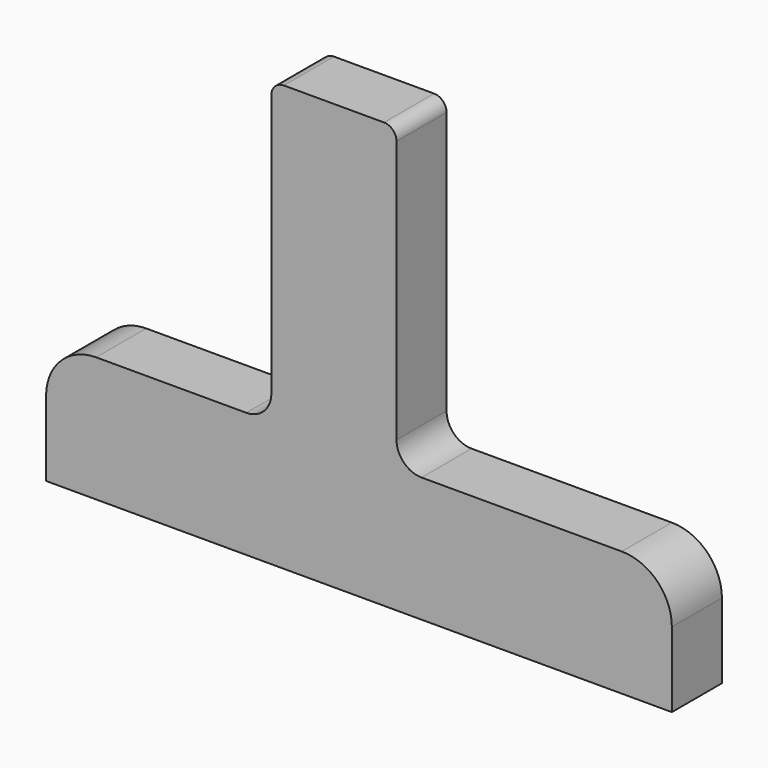
from build123d import *

# Parameters (mm, degrees)
F1_DEPTH = 25


with BuildPart() as f1:
    # F0 (on Front) → F1 (new body)
    with BuildSketch(Plane.XZ):
        with BuildLine():
            Line((103.990591, -245.581819), (103.990591, -275.581819))
            Line((103.990591, -275.581819), (353.990591, -275.581819))
            Line((353.990591, -275.581819), (353.990591, -245.581819))
            ThreePointArc((353.990591, -245.581819), (348.132727, -231.439684), (333.990591, -225.581819))
            Line((333.990591, -225.581819), (253.990591, -225.581819))
            ThreePointArc((253.990591, -225.581819), (246.919523, -222.652887), (243.990591, -215.581819))
            Line((243.990591, -215.581819), (243.990591, -110.581819))
            ThreePointArc((243.990591, -110.581819), (242.526125, -107.046285), (238.990591, -105.581819))
            Line((238.990591, -105.581819), (198.990591, -105.581819))
            ThreePointArc((198.990591, -105.581819), (195.455057, -107.046285), (193.990591, -110.581819))
            Line((193.990591, -110.581819), (193.990591, -215.581819))
            ThreePointArc((193.990591, -215.581819), (191.061659, -222.652887), (183.990591, -225.581819))
            Line((183.990591, -225.581819), (123.990591, -225.581819))
            ThreePointArc((123.990591, -225.581819), (109.848456, -231.439684), (103.990591, -245.581819))
        make_face()
    extrude(amount=F1_DEPTH)


solid = f1.part
